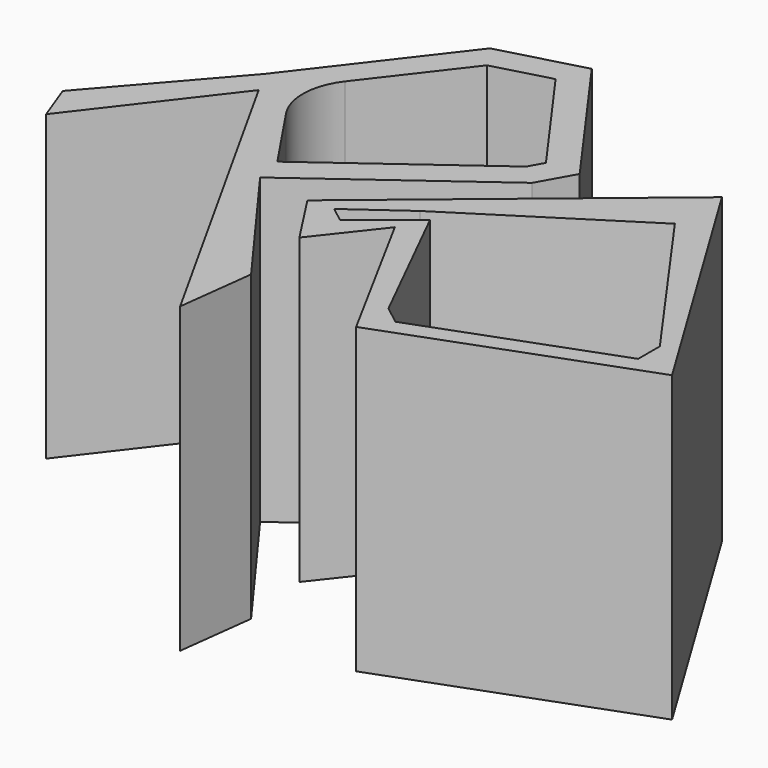
from build123d import *

# Parameters (mm, degrees)
F1_DEPTH = 25.4
F2_R     = 5.08


with BuildPart() as f1:
    # F0 (on Top) → F1 (new body)
    with BuildSketch(Plane.XY):
        Polygon((-8.687248, -15.180712), (-7.894566, -8.740172), (-16.011428, 2.349292), (-1.63827, 12.869632), (0, 15.796965), (-8.687248, 27.923886), (-15.697712, 26.022742), (-24.948966, 13.987131), (-33.748982, 3.858465), (-32.542204, 0.602082), (-23.815881, 11.954773), align=None)
        Polygon((-22.40441, 13.546446), (-14.355188, 24.018249), (-9.621114, 25.302067), (-2.704024, 15.64619), (-3.390064, 14.420344), (-16.530498, 4.802288), align=None, mode=Mode.SUBTRACT)
        Polygon((9.323029, 19.038815), (-11.568893, 1.748949), (-8.687248, -2.693586), (-4.724987, 2.349292), (2.118919, -10.257903), (22.530565, -2.693586), align=None)
        Polygon((3.657808, -8.083027), (2.128598, -6.881505), (-3.582856, 4.612795), (-8.150667, 0.88909), (-9.437095, 1.899855), (-4.867933, 5.18394), (9.267915, 14.17948), (19.351967, 0), (19.351967, -2.266956), align=None, mode=Mode.SUBTRACT)
    extrude(amount=F1_DEPTH)

    # F2
    f2_edges = [f1.edges().sort_by_distance(p)[0] for p in [
        (-22.40441, 13.546446, 12.7),
    ]]
    fillet(f2_edges, radius=F2_R)


solid = f1.part
